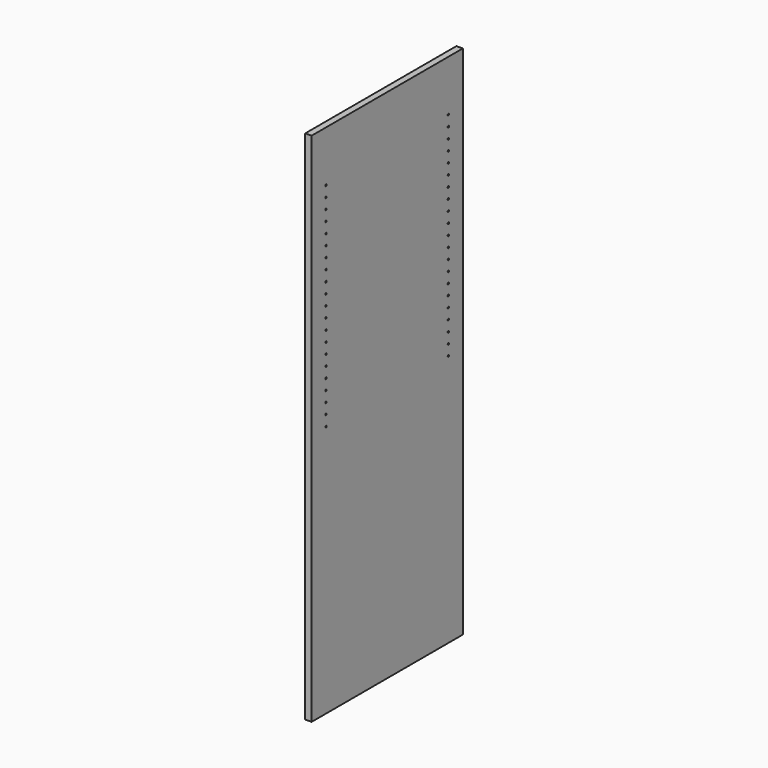
from build123d import *

# Parameters (mm, degrees)
F0_W     = 565.15
F0_H     = 1543.05
F1_DEPTH = 19.05
F3_D     = 5.0038
F3_DEPTH = 14.224
F3_TIP   = 1.5032931827
F5_D     = 5.0038
F5_DEPTH = 14.224
F5_TIP   = 1.5032931827


with BuildPart() as f1:
    # F0 (on Right) → F1 (new body)
    with BuildSketch(Plane.YZ):
        Rectangle(F0_W, F0_H)
    extrude(amount=F1_DEPTH)

    # F3
    with Locations(Plane.YZ.offset(19.05)):
        with Locations((-228.6, 619.125), (-228.6, 587.375), (-228.6, 555.625), (-228.6, 523.875), (-228.6, 492.125), (-228.6, 460.375), (-228.6, 428.625), (-228.6, 396.875), (-228.6, 365.125), (-228.6, 333.375), (-228.6, 301.625), (-228.6, 269.875), (-228.6, 238.125), (-228.6, 206.375), (-228.6, 174.625), (-228.6, 142.875), (-228.6, 111.125), (-228.6, 79.375), (-228.6, 47.625), (-228.6, 15.875), (-228.6, -15.875), (228.6, 619.125), (228.6, 587.375), (228.6, 555.625), (228.6, 523.875), (228.6, 492.125), (228.6, 460.375), (228.6, 428.625), (228.6, 396.875), (228.6, 365.125), (228.6, 333.375), (228.6, 301.625), (228.6, 269.875), (228.6, 238.125), (228.6, 206.375), (228.6, 174.625), (228.6, 142.875), (228.6, 111.125), (228.6, 79.375), (228.6, 47.625), (228.6, 15.875), (228.6, -15.875)):
            Hole(F3_D / 2, depth=F3_DEPTH)
            with Locations((0, 0, -(F3_DEPTH + F3_TIP / 2))):  # 118° drill point
                Cone(0, F3_D / 2, F3_TIP, mode=Mode.SUBTRACT)

    # F5
    with Locations(Plane(origin=(0, 0, 0), x_dir=(0, -1, 0), z_dir=(-1, 0, 0))):
        with Locations((-228.6, -79.375), (-228.6, -111.125), (-228.6, -142.875), (-228.6, -174.625), (-228.6, -206.375), (-228.6, -238.125), (-228.6, -269.875), (-228.6, -301.625), (-228.6, -333.375), (-228.6, -365.125), (-228.6, -396.875), (-228.6, -428.625), (-228.6, -460.375), (-228.6, -523.875), (-228.6, -492.125), (-228.6, -555.625), (-228.6, -587.375), (-228.6, -619.125), (228.6, -619.125), (228.6, -587.375), (228.6, -555.625), (228.6, -523.875), (228.6, -492.125), (228.6, -460.375), (228.6, -428.625), (228.6, -396.875), (228.6, -365.125), (228.6, -333.375), (228.6, -301.625), (228.6, -269.875), (228.6, -238.125), (228.6, -174.625), (228.6, -206.375), (228.6, -142.875), (228.6, -111.125), (228.6, -79.375)):
            Hole(F5_D / 2, depth=F5_DEPTH)
            with Locations((0, 0, -(F5_DEPTH + F5_TIP / 2))):  # 118° drill point
                Cone(0, F5_D / 2, F5_TIP, mode=Mode.SUBTRACT)


solid = f1.part
